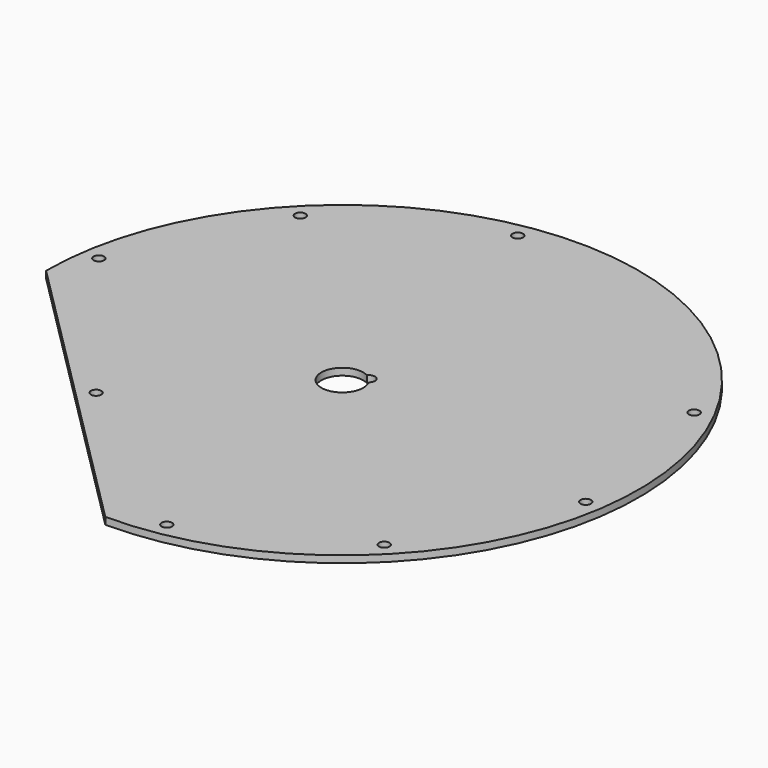
from build123d import *

# Parameters (mm, degrees)
F0_R     = 4.7625
F1_DEPTH = 6.35


with BuildPart() as f1:
    # F0 (on Top) → F1 (new body)
    with BuildSketch(Plane.XY):
        with BuildLine():
            Line((-269.875, 0), (0, -269.875))
            ThreePointArc((0, -269.875), (191.033844, 191.033844), (-269.875, 0))
        make_face()
        with Locations((-124.610205, -124.610205)):
            Circle(F0_R, mode=Mode.SUBTRACT)
        with BuildLine():
            ThreePointArc((16.784284, 9.010566), (18.47489, 4.645529), (19.05, 0))
            ThreePointArc((19.05, 0), (-16.348605, -9.778835), (9.010566, 16.784284))
            ThreePointArc((9.010566, 16.784284), (15.21567, 18.745409), (19.026634, 13.470384))
            ThreePointArc((19.026634, 13.470384), (18.434494, 10.974482), (16.784284, 9.010566))
        make_face(mode=Mode.SUBTRACT)
        with Locations((41.622845, -251.873195)):
            Circle(F0_R, mode=Mode.SUBTRACT)
        with Locations((181.720938, -179.304401)):
            Circle(F0_R, mode=Mode.SUBTRACT)
        with Locations((252.40781, -38.24742)):
            Circle(F0_R, mode=Mode.SUBTRACT)
        with Locations((-252.40781, 38.24742)):
            Circle(F0_R, mode=Mode.SUBTRACT)
        with Locations((-181.720938, 179.304401)):
            Circle(F0_R, mode=Mode.SUBTRACT)
        with Locations((-41.622845, 251.873195)):
            Circle(F0_R, mode=Mode.SUBTRACT)
        with Locations((226.683477, 117.418776)):
            Circle(F0_R, mode=Mode.SUBTRACT)
    extrude(amount=-F1_DEPTH)


solid = f1.part
